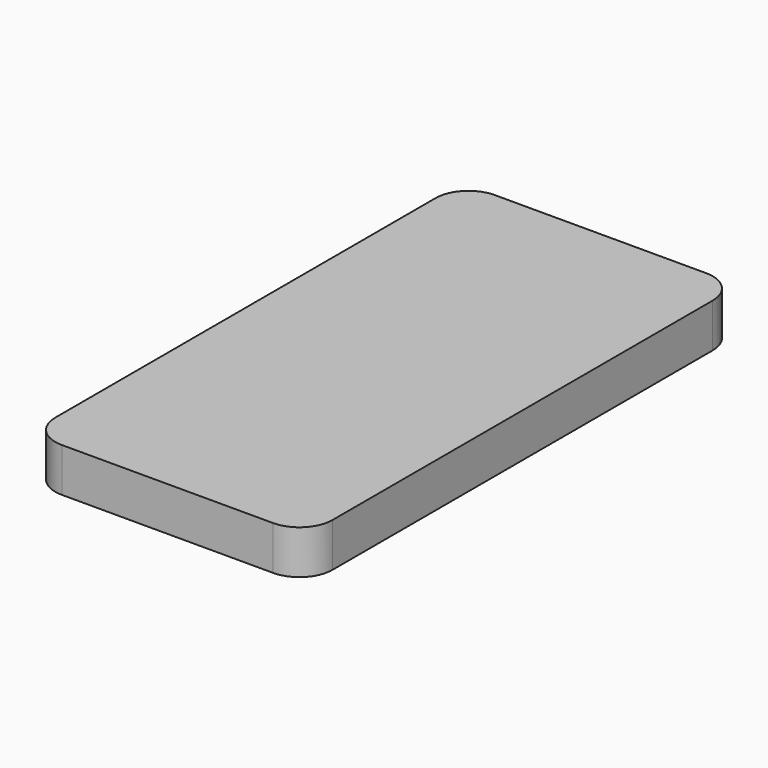
from build123d import *

# Parameters (mm, degrees)
F1_DEPTH = 13.3
F3_DEPTH = 7.3


with BuildPart() as f1:
    # F0 (on Top) → F1 (new body)
    with BuildSketch(Plane.XY):
        with BuildLine():
            Line((35.104722, 81.694619), (-28.895278, 81.694619))
            ThreePointArc((-28.895278, 81.694619), (-35.966346, 78.765687), (-38.895278, 71.694619))
            Line((-38.895278, 71.694619), (-38.895278, -72.305381))
            ThreePointArc((-38.895278, -72.305381), (-35.966346, -79.376448), (-28.895278, -82.305381))
            Line((-28.895278, -82.305381), (35.104722, -82.305381))
            ThreePointArc((35.104722, -82.305381), (42.17579, -79.376448), (45.104722, -72.305381))
            Line((45.104722, -72.305381), (45.104722, 71.694619))
            ThreePointArc((45.104722, 71.694619), (42.17579, 78.765687), (35.104722, 81.694619))
        make_face()
    extrude(amount=F1_DEPTH)

    # F2 (on Top) → F3 (cut)
    with BuildSketch(Plane.XY):
        with BuildLine():
            Line((32.104722, 78.694619), (-25.895278, 78.694619))
            ThreePointArc((-25.895278, 78.694619), (-32.966346, 75.765687), (-35.895278, 68.694619))
            Line((-35.895278, 68.694619), (-35.895278, -69.305381))
            ThreePointArc((-35.895278, -69.305381), (-32.966346, -76.376448), (-25.895278, -79.305381))
            Line((-25.895278, -79.305381), (32.104722, -79.305381))
            ThreePointArc((32.104722, -79.305381), (39.17579, -76.376448), (42.104722, -69.305381))
            Line((42.104722, -69.305381), (42.104722, 68.694619))
            ThreePointArc((42.104722, 68.694619), (39.17579, 75.765687), (32.104722, 78.694619))
        make_face()
    extrude(amount=F3_DEPTH, mode=Mode.SUBTRACT)


solid = f1.part
